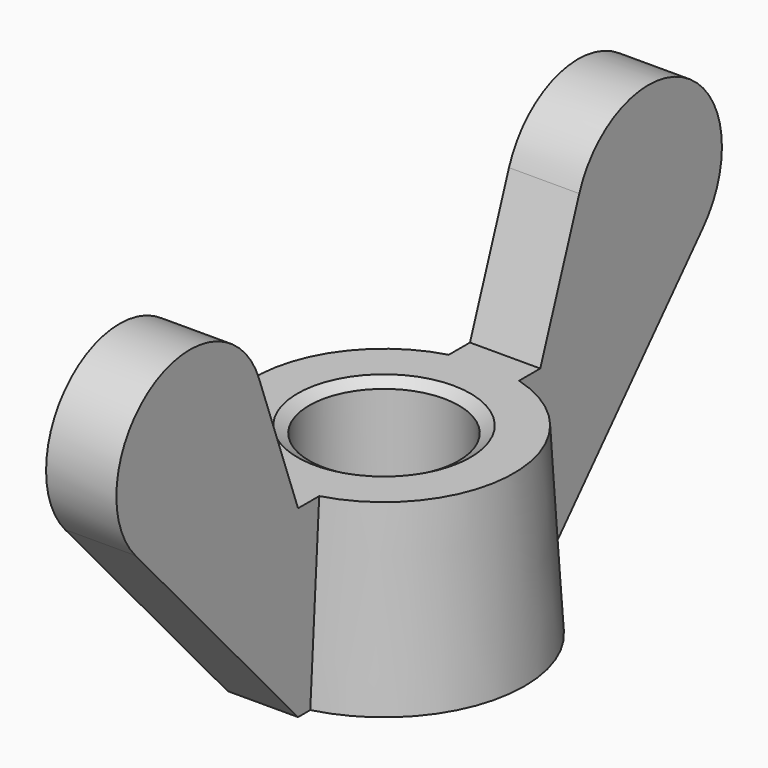
from build123d import *

# Parameters (mm, degrees)
PAD_DEPTH = 3.25


with BuildPart() as pad:
    # Sketch001 → Pad (new body, symmetric)
    with BuildSketch(Plane.YZ):
        with BuildLine():
            Line((8.5, 0), (8.5, 17))
            Line((8.5, 17), (14, 17))
            Line((14, 17), (18.511951, 29.405352))
            ThreePointArc((32.805084, 20.799482), (30.884444, 33.78194), (18.511951, 29.405352))
            Line((14, 0), (32.805084, 20.799482))
            Line((8.5, 0), (14, 0))
        make_face()
        with BuildLine():
            Line((-32.80508, 20.799452), (-13.999963, 0))
            Line((-13.999963, 0), (-8.499963, 0))
            Line((-8.499963, 0), (-8.499963, 17))
            Line((-8.499963, 17), (-13.999963, 17))
            Line((-13.999963, 17), (-18.511955, 29.405337))
            ThreePointArc((-18.511955, 29.405337), (-30.884451, 33.781911), (-32.80508, 20.799452))
        make_face()
    extrude(amount=PAD_DEPTH, both=True)


with BuildPart() as obj1:
    # Sketch → Revolution (revolve)
    with BuildSketch(Plane.YZ):
        Polygon((8, 0), (6.92, 0.623538), (6.92, 16.376462), (8, 17), (12, 17), (13, 0), align=None)
    revolve(axis=Axis((0, 0, 0), (0, 0, 1)))

    # Fusion: union Pad
    add(pad.part)


solid = obj1.part
